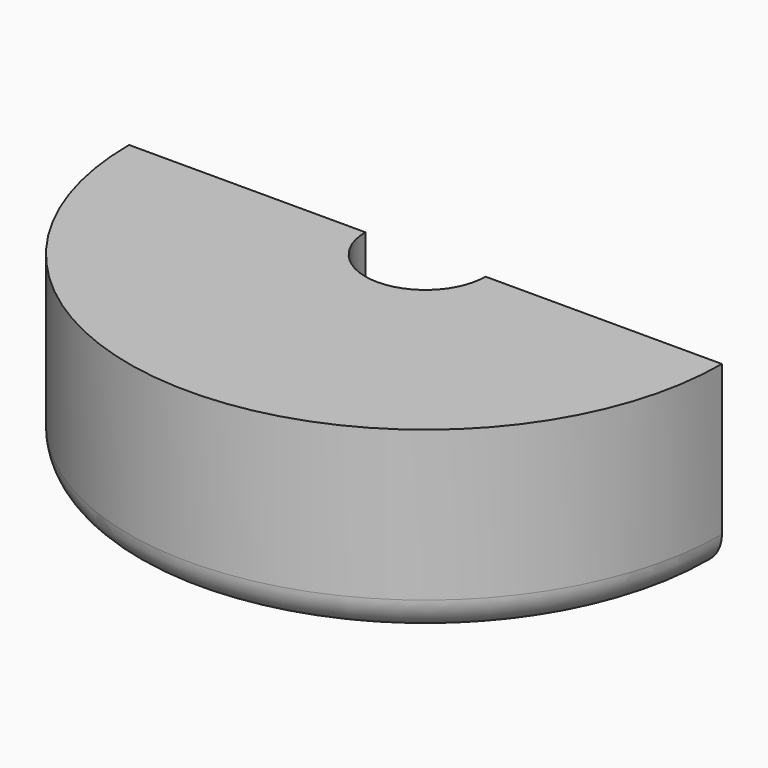
from build123d import *

# Parameters (mm, degrees)
F1_ANGLE = 180
F2_R     = 5.08


with BuildPart() as f1:
    # F0 (on Front) → F1 (revolve)
    with BuildSketch(Plane.XZ):
        Polygon((-45.289915, 0), (-9.171271, 0), (-9.171271, 6.151464), (-19.96652, 13.392183), (-9.171271, 21.291147), (-9.171271, 28.001834), (-45.289915, 28.001834), align=None)
    revolve(axis=Axis((0, 0, 31.041022), (0, 0, 1)), revolution_arc=F1_ANGLE)

    # F2
    f2_edges = [f1.edges().sort_by_distance(p)[0] for p in [
        (0, -45.289915, 0),
    ]]
    fillet(f2_edges, radius=F2_R)


solid = f1.part
